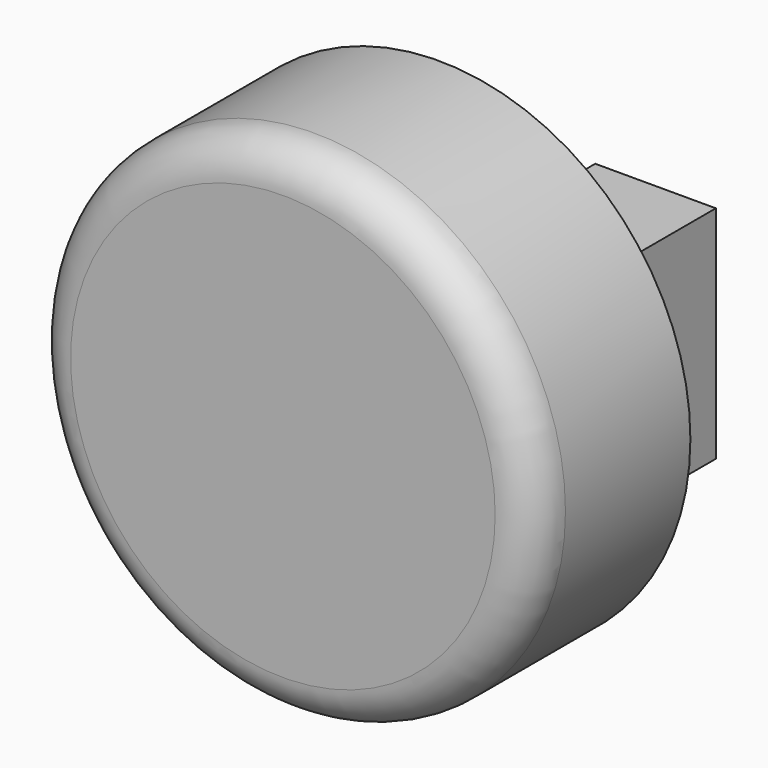
from build123d import *

# Parameters (mm, degrees)
F0_R     = 32.703889
F1_DEPTH = 25.4
F2_R     = 5.08
F3_W     = 15.693672
F3_H     = 28.699555
F4_DEPTH = 25.4


with BuildPart() as f1:
    # F0 (on Front) → F1 (new body)
    with BuildSketch(Plane.XZ):
        Circle(F0_R)
    extrude(amount=F1_DEPTH)

    # F2
    f2_edges = [f1.edges().sort_by_distance(p)[0] for p in [
        (-32.703889, -25.4, 0),
    ]]
    fillet(f2_edges, radius=F2_R)

    # F3 (on face) → F4 (join)
    with BuildSketch(Plane(origin=(0, 0, 0), x_dir=(-1, 0, 0), z_dir=(0, 1, 0))):
        with Locations((-7.846836, -3.763053)):
            Rectangle(F3_W, F3_H)
    extrude(amount=F4_DEPTH)


solid = f1.part
